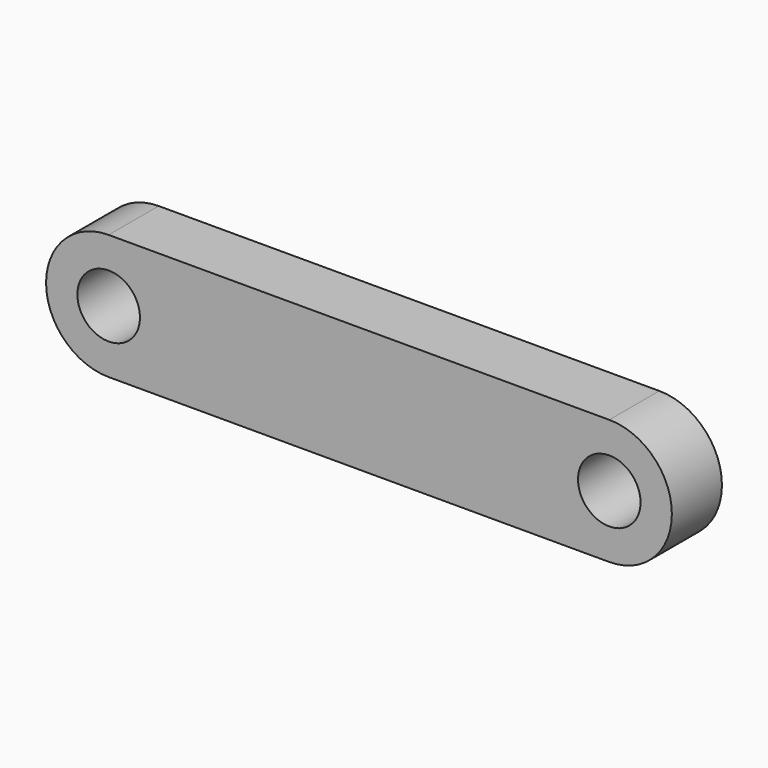
from build123d import *

# Parameters (mm, degrees)
F0_R     = 5
F1_DEPTH = 5


with BuildPart() as f1:
    # F0 (on Front) → F1 (new body, symmetric)
    with BuildSketch(Plane.XZ):
        with BuildLine():
            Line((80, 10), (0, 10))
            ThreePointArc((0, 10), (-10, 0), (0, -10))
            Line((0, -10), (80, -10))
            ThreePointArc((80, -10), (90, 0), (80, 10))
        make_face()
        Circle(F0_R, mode=Mode.SUBTRACT)
        with Locations((80, 0)):
            Circle(F0_R, mode=Mode.SUBTRACT)
    extrude(amount=F1_DEPTH, both=True)


solid = f1.part
